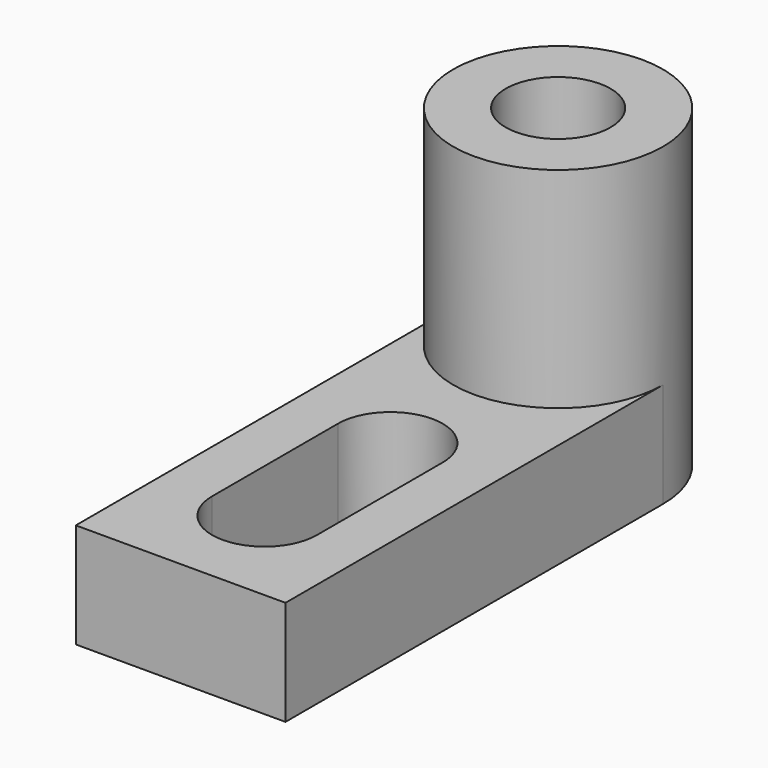
from build123d import *

# Parameters (mm, degrees)
F0_W      = 25.4
F0_H      = 69.85
F1_DEPTH  = 38.1
F2_W      = 44.45
F2_H      = 25.4
F3_DEPTH  = 25.4
F5_DEPTH  = 25.4
F7_DEPTH  = 25.4
F4_W      = 25.4
F4_H      = 25.4
F8_DEPTH  = 25.4
F9_R      = 6.35
F10_DEPTH = 76.2
F11_DEPTH = 25.4
F13_DEPTH = 25.4


with BuildPart() as f1:
    # F0 (on Top) → F1 (new body)
    with BuildSketch(Plane.XY):
        with Locations((12.7, 34.925)):
            Rectangle(F0_W, F0_H)
    extrude(amount=F1_DEPTH)

    # F2 (on face) → F3 (cut)
    with BuildSketch(Plane(origin=(0, 0, 0), x_dir=(0, -1, 0), z_dir=(-1, 0, 0))):
        with Locations((-22.225, 25.4)):
            Rectangle(F2_W, F2_H)
    extrude(amount=-F3_DEPTH, mode=Mode.SUBTRACT)

    # F2 (on face) → F5 (cut)
    with BuildSketch(Plane(origin=(0, 0, 0), x_dir=(0, -1, 0), z_dir=(-1, 0, 0))):
        with Locations((-22.225, 25.4)):
            Rectangle(F2_W, F2_H)
    extrude(amount=-F5_DEPTH, mode=Mode.SUBTRACT)

    # F6 (on face) → F7 (cut)
    with BuildSketch(Plane.XY.offset(38.1)):
        with BuildLine():
            ThreePointArc((0, 57.15), (3.7197438789, 66.1302561211), (12.7, 69.85))
            Line((12.7, 69.85), (0, 69.85))
            Line((0, 69.85), (0, 57.15))
        make_face()
        with BuildLine():
            ThreePointArc((12.7, 69.85), (21.6802561211, 66.1302561211), (25.4, 57.15))
            Line((25.4, 57.15), (25.4, 69.85))
            Line((25.4, 69.85), (12.7, 69.85))
        make_face()
        with BuildLine():
            Line((0, 44.45), (12.7, 44.45))
            ThreePointArc((12.7, 44.45), (3.7197438789, 48.1697438789), (0, 57.15))
            Line((0, 57.15), (0, 44.45))
        make_face()
        with BuildLine():
            Line((25.4, 44.45), (25.4, 57.15))
            ThreePointArc((25.4, 57.15), (21.6802561211, 48.1697438789), (12.7, 44.45))
            Line((12.7, 44.45), (25.4, 44.45))
        make_face()
    extrude(amount=-F7_DEPTH, mode=Mode.SUBTRACT)

    # F4 (on face) → F8 (cut)
    with BuildSketch(Plane.XY.offset(38.1)):
        with Locations((12.7, 57.15)):
            Rectangle(F4_W, F4_H)
    extrude(amount=F8_DEPTH, mode=Mode.SUBTRACT)

    # F9 (on face) → F10 (cut)
    with BuildSketch(Plane.XY.offset(38.1)):
        with Locations((12.7, 57.15)):
            Circle(F9_R)
    extrude(amount=-F10_DEPTH, mode=Mode.SUBTRACT)

    # F11 (cut): faces of the model
    f11_faces = [f1.faces().sort_by_distance(p)[0] for p in [
        (2.8367728246, 67.0132271754, 12.7),
        (22.5632271754, 67.0132271754, 12.7),
    ]]
    extrude(f11_faces, amount=-F11_DEPTH, mode=Mode.SUBTRACT)

    # F12 (on face) → F13 (cut)
    with BuildSketch(Plane.XY.offset(12.7)):
        with BuildLine():
            Line((6.35, 31.75), (19.05, 31.75))
            ThreePointArc((19.05, 31.75), (12.7, 38.1), (6.35, 31.75))
        make_face()
        with BuildLine():
            Line((19.05, 12.7), (19.05, 31.75))
            ThreePointArc((19.05, 31.75), (12.7, 25.4), (6.35, 31.75))
            Line((6.35, 31.75), (6.35, 12.7))
            ThreePointArc((6.35, 12.7), (12.7, 19.05), (19.05, 12.7))
        make_face()
        with BuildLine():
            ThreePointArc((6.35, 31.75), (12.7, 25.4), (19.05, 31.75))
            Line((19.05, 31.75), (6.35, 31.75))
        make_face()
        with BuildLine():
            ThreePointArc((6.35, 12.7), (12.7, 6.35), (19.05, 12.7))
            ThreePointArc((19.05, 12.7), (12.7, 19.05), (6.35, 12.7))
        make_face()
    extrude(amount=-F13_DEPTH, mode=Mode.SUBTRACT)


solid = f1.part
